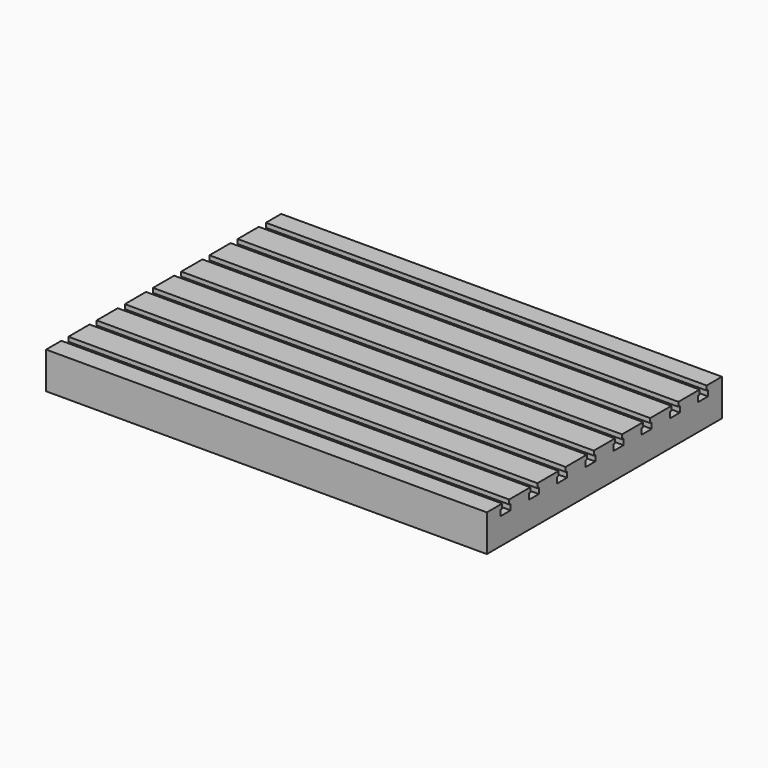
from build123d import *

# Parameters (mm, degrees)
F0_W     = 400
F0_H     = 50
F1_DEPTH = 300
F3_DEPTH = 600.001


with BuildPart() as f1:
    # F0 (on Right) → F1 (new body, symmetric)
    with BuildSketch(Plane.YZ):
        with Locations((0, -25)):
            Rectangle(F0_W, F0_H)
    extrude(amount=F1_DEPTH, both=True)

    # F2 (on face) → F3 (cut, through all)
    with BuildSketch(Plane.YZ.offset(300)):
        Polygon((-162, 0), (-174, 0), (-174, -6), (-176.5, -6), (-176.5, -14), (-159.5, -14), (-159.5, -6), (-162, -6), align=None)
        Polygon((-128.5, -6), (-128.5, -14), (-111.5, -14), (-111.5, -6), (-114, -6), (-114, 0), (-126, 0), (-126, -6), align=None)
        Polygon((-80.5, -6), (-80.5, -14), (-63.5, -14), (-63.5, -6), (-66, -6), (-66, 0), (-78, 0), (-78, -6), align=None)
        Polygon((-32.5, -6), (-32.5, -14), (-15.5, -14), (-15.5, -6), (-18, -6), (-18, 0), (-30, 0), (-30, -6), align=None)
        Polygon((15.5, -6), (15.5, -14), (32.5, -14), (32.5, -6), (30, -6), (30, 0), (18, 0), (18, -6), align=None)
        Polygon((63.5, -6), (63.5, -14), (80.5, -14), (80.5, -6), (78, -6), (78, 0), (66, 0), (66, -6), align=None)
        Polygon((111.5, -6), (111.5, -14), (128.5, -14), (128.5, -6), (126, -6), (126, 0), (114, 0), (114, -6), align=None)
        Polygon((159.5, -6), (159.5, -14), (176.5, -14), (176.5, -6), (174, -6), (174, 0), (162, 0), (162, -6), align=None)
    extrude(amount=-F3_DEPTH, mode=Mode.SUBTRACT)


solid = f1.part
